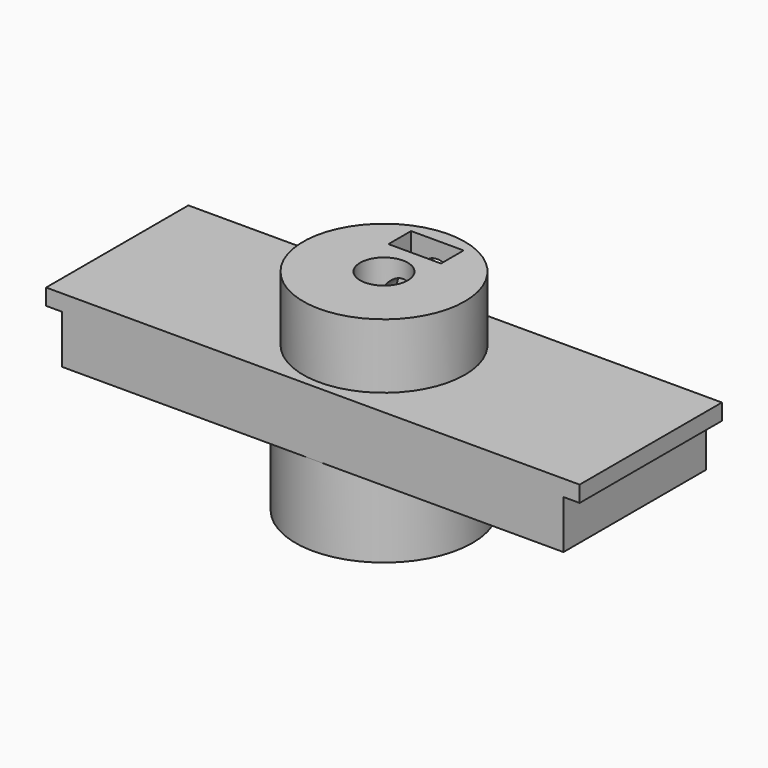
from build123d import *

# Parameters (mm, degrees)
BOX003_W          = 5
BOX003_H          = 22
BOX003_DEPTH      = 2
BOX_W             = 5
BOX_H             = 22
BOX_DEPTH         = 2
CYLINDER006_R     = 2.95
CYLINDER006_DEPTH = 25
CYLINDER007_R     = 2.85
CYLINDER007_DEPTH = 25
BOX002_W          = 62
BOX002_H          = 8
BOX002_DEPTH      = 22
CYLINDER010_R     = 2
CYLINDER010_DEPTH = 10
BOX004_W          = 6.5
BOX004_H          = 3.5
BOX004_DEPTH      = 6.5
PRISM002_DEPTH    = 3.5
CYLINDER009_R     = 2.85
CYLINDER009_DEPTH = 25
CYLINDER008_R     = 10
CYLINDER008_DEPTH = 13
CYLINDER011_R     = 10.95
CYLINDER011_DEPTH = 13


with BuildPart() as cubo003:
    # Box003 → Box003 (new body)
    with BuildSketch(Plane(origin=(28, -11, 6), x_dir=(1, 0, 0), z_dir=(0, 0, 1))):
        with Locations((2.5, 11)):
            Rectangle(BOX003_W, BOX003_H)
    extrude(amount=BOX003_DEPTH)


with BuildPart() as cubo:
    # Box → Box (new body)
    with BuildSketch(Plane(origin=(-33, -11, 6), x_dir=(1, 0, 0), z_dir=(0, 0, 1))):
        with Locations((2.5, 11)):
            Rectangle(BOX_W, BOX_H)
    extrude(amount=BOX_DEPTH)


with BuildPart() as cilindro006:
    # Cylinder006 → Cylinder006 (new body)
    with BuildSketch(Plane.XY.offset(-7)):
        Circle(CYLINDER006_R)
    extrude(amount=CYLINDER006_DEPTH)


with BuildPart() as cilindro007:
    # Cylinder007 → Cylinder007 (new body)
    with BuildSketch(Plane.XY.offset(-7)):
        Circle(CYLINDER007_R)
    extrude(amount=CYLINDER007_DEPTH)


with BuildPart() as cut:
    # Box002 → Box002 (new body)
    with BuildSketch(Plane(origin=(-31, 11, 0), x_dir=(1, 0, 0), z_dir=(0, -1, 0))):
        with Locations((31, 4)):
            Rectangle(BOX002_W, BOX002_H)
    extrude(amount=BOX002_DEPTH)

    # Cut: cut Cilindro007
    add(cilindro007.part, mode=Mode.SUBTRACT)


with BuildPart() as cilindro010:
    # Cylinder010 → Cylinder010 (new body)
    with BuildSketch(Plane(origin=(0, 11, 9), x_dir=(1, 0, 0), z_dir=(0, -1, 0))):
        Circle(CYLINDER010_R)
    extrude(amount=CYLINDER010_DEPTH)


with BuildPart() as cubo004:
    # Box004 → Box004 (new body)
    with BuildSketch(Plane(origin=(-3.25, 4.75, 9), x_dir=(1, 0, 0), z_dir=(0, 0, 1))):
        with Locations((3.25, 1.75)):
            Rectangle(BOX004_W, BOX004_H)
    extrude(amount=BOX004_DEPTH)


with BuildPart() as prisma002:
    # Prism002 → Prism002 (new body)
    with BuildSketch(Plane(origin=(0, 8, 9), x_dir=(1, 0, 0), z_dir=(0, -1, 0))):
        Polygon((3.5, 0), (1.75, 3.031089), (-1.75, 3.031089), (-3.5, 0), (-1.75, -3.031089), (1.75, -3.031089), align=None)
    extrude(amount=PRISM002_DEPTH)


with BuildPart() as cilindro009:
    # Cylinder009 → Cylinder009 (new body)
    with BuildSketch(Plane.XY.offset(-7)):
        Circle(CYLINDER009_R)
    extrude(amount=CYLINDER009_DEPTH)


with BuildPart() as fusion004:
    # Cylinder008 → Cylinder008 (new body)
    with BuildSketch(Plane.XY):
        Circle(CYLINDER008_R)
    extrude(amount=CYLINDER008_DEPTH)

    # Cut007: cut Cilindro009
    add(cilindro009.part, mode=Mode.SUBTRACT)

    # Cut008: cut Prisma002
    add(prisma002.part, mode=Mode.SUBTRACT)

    # Cut009: cut Cubo004
    add(cubo004.part, mode=Mode.SUBTRACT)

    # Cut010: cut Cilindro010
    add(cilindro010.part, mode=Mode.SUBTRACT)


with BuildPart() as fusion004_1:
    # Cut010 placement: moved
    add(fusion004.part.moved(Location((0, 0, 3))))

    # Fusion002: union Cut
    add(cut.part)

    # Cut011: cut Cilindro006
    add(cilindro006.part, mode=Mode.SUBTRACT)

    # Fusion003: union Cubo
    add(cubo.part)

    # Fusion004: union Cubo003
    add(cubo003.part)


with BuildPart() as fusion004003:
    # Cylinder011 → Cylinder011 (new body)
    with BuildSketch(Plane.XY.offset(-10)):
        Circle(CYLINDER011_R)
    extrude(amount=CYLINDER011_DEPTH)

    # Fusion004003: union Fusion004
    add(fusion004_1.part)


solid = fusion004003.part
